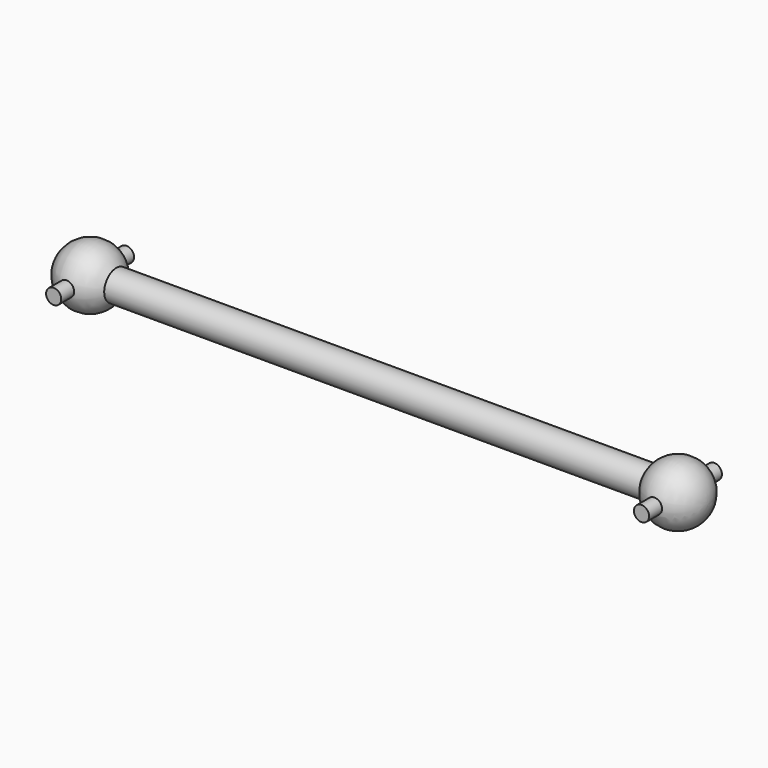
from build123d import *

# Parameters (mm, degrees)
F2_R     = 1
F3_DEPTH = 6


with BuildPart() as f1:
    # F0 (on Front) → F1 (revolve)
    with BuildSketch(Plane.XZ):
        with BuildLine():
            Line((32.712799, 2), (-37.858998, 2))
            ThreePointArc((-37.858998, 2), (-42.358375, 3.863703), (-45.323099, 0))
            Line((-45.323099, 0), (40.176901, 0))
            ThreePointArc((40.176901, 0), (37.212177, 3.863703), (32.712799, 2))
        make_face()
        with BuildLine():
            Line((32.712799, 2), (-37.858998, 2))
            ThreePointArc((-37.858998, 2), (-42.358375, 3.863703), (-45.323099, 0))
            Line((-45.323099, 0), (40.176901, 0))
            ThreePointArc((40.176901, 0), (37.212177, 3.863703), (32.712799, 2))
        make_face()
    revolve(axis=Axis((-2.573099, 0, 0), (1, 0, 0)))

    # F2 (on Front) → F3 (join, symmetric)
    with BuildSketch(Plane.XZ):
        with Locations((-41.323099, 0)):
            Circle(F2_R)
        with Locations((36.176901, 0)):
            Circle(F2_R)
    extrude(amount=F3_DEPTH, both=True)


solid = f1.part
